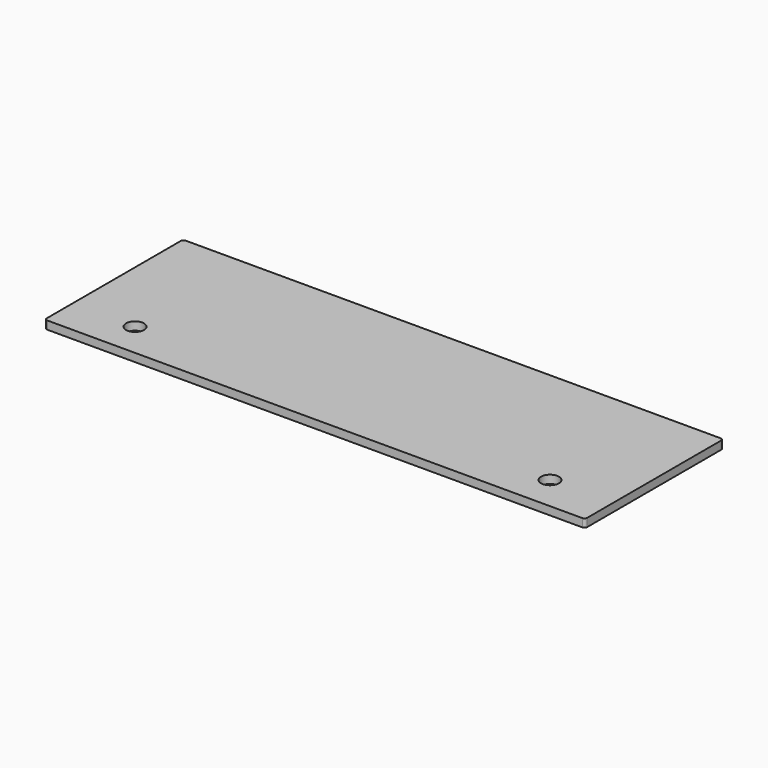
from build123d import *

# Parameters (mm, degrees)
SKETCH_R  = 3.302
PAD_DEPTH = 3


with BuildPart() as part:
    # Sketch → Pad (new body)
    with BuildSketch(Plane.XY):
        with BuildLine():
            ThreePointArc((-98.21875, 31.75), (-98.925857, 31.457107), (-99.21875, 30.75))
            Line((-99.21875, -30.75), (-99.21875, 30.75))
            ThreePointArc((-99.21875, -30.75), (-98.925857, -31.457107), (-98.21875, -31.75))
            Line((98.21875, -31.75), (-98.21875, -31.75))
            ThreePointArc((98.21875, -31.75), (98.925857, -31.457107), (99.21875, -30.75))
            Line((99.21875, 30.75), (99.21875, -30.75))
            ThreePointArc((99.21875, 30.75), (98.925857, 31.457107), (98.21875, 31.75))
            Line((-98.21875, 31.75), (98.21875, 31.75))
        make_face()
        with Locations((-76.2, -19.05)):
            Circle(SKETCH_R, mode=Mode.SUBTRACT)
        with Locations((76.2, -19.05)):
            Circle(SKETCH_R, mode=Mode.SUBTRACT)
    extrude(amount=PAD_DEPTH)


solid = part.part
